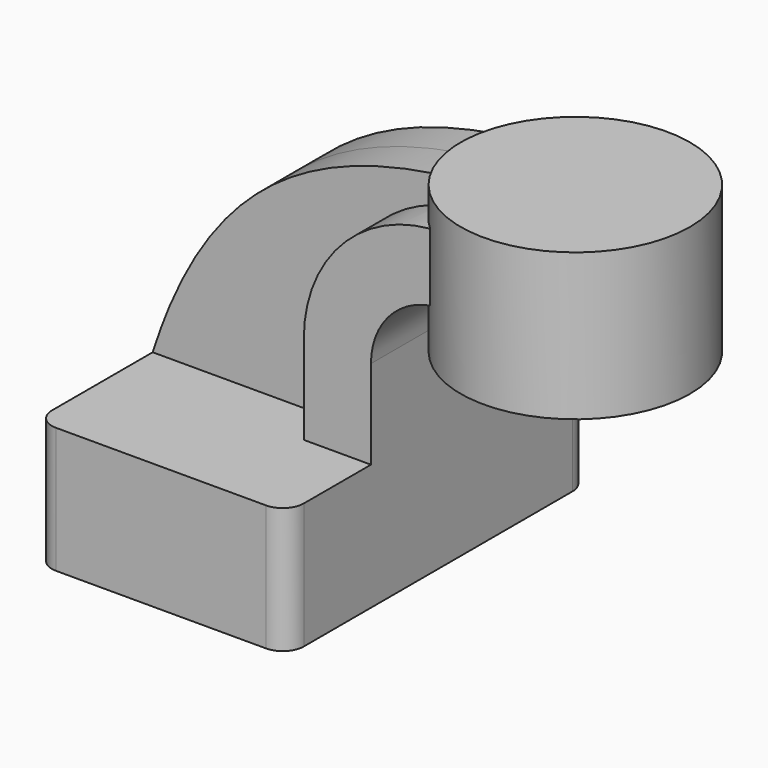
from build123d import *

# Parameters (mm, degrees)
F1_DEPTH = 57.15
F2_DEPTH = 25.4
F3_DEPTH = 12.7
F0_W     = 34.6883076322
F0_H     = 8.9280228981
F0_H_2   = 20.32
F0_H_3   = 15.2019771019
F5_R     = 6.35


with BuildPart() as f1:
    # F0 (on Front) → F1 (new body, symmetric)
    with BuildSketch(Plane.XZ):
        Polygon((-34.9306485406, 17.8198447397), (-34.9306485406, -20.2801552603), (41.2693514594, -20.2801552603), (41.2693514594, 17.8198447397), (20.9493514594, 17.8198447397), align=None)
    extrude(amount=F1_DEPTH, both=True)

    # F0 (on Front) → F2 (join, symmetric)
    with BuildSketch(Plane.XZ):
        with BuildLine():
            Line((20.9493514594, 17.8198447397), (41.2693514594, 17.8198447397))
            Line((41.2693514594, 17.8198447397), (41.2693514594, 44.7438447397))
            ThreePointArc((41.2693514594, 44.7438447397), (47.5929160536, 60.0102801456), (62.8593514594, 66.3338447397))
            Line((62.8593514594, 66.3338447397), (82.7810438272, 66.3338447397))
            Line((82.7810438272, 66.3338447397), (82.7810438272, 86.6538447397))
            Line((82.7810438272, 86.6538447397), (62.8593514594, 86.6538447397))
            ThreePointArc((62.8593514594, 86.6538447397), (33.2245062599, 74.3786899393), (20.9493514594, 44.7438447397))
            Line((20.9493514594, 44.7438447397), (20.9493514594, 17.8198447397))
        make_face()
    extrude(amount=F2_DEPTH, both=True)

    # F0 (on Front) → F3 (join, symmetric)
    with BuildSketch(Plane.XZ):
        with BuildLine():
            add(Edge.make_bspline(
                [(82.7810438272, 95.5818676378), (25.6006252021, 94.6536809206), (-14.9303628132, 80.6806907058), (-34.9306485406, 17.8198447397)],
                knots=[0, 0, 0, 0, 141.0779030369, 141.0779030369, 141.0779030369, 141.0779030369], degree=3))
            Line((-34.9306485406, 17.8198447397), (20.9493514594, 17.8198447397))
            Line((20.9493514594, 17.8198447397), (20.9493514594, 44.7438447397))
            ThreePointArc((20.9493514594, 44.7438447397), (33.2245062599, 74.3786899393), (62.8593514594, 86.6538447397))
            Line((62.8593514594, 86.6538447397), (82.7810438272, 86.6538447397))
            Line((82.7810438272, 86.6538447397), (82.7810438272, 95.5818676378))
        make_face()
    extrude(amount=F3_DEPTH, both=True)

    # F0 (on Front) → F4 (revolve)
    with BuildSketch(Plane.XZ):
        with Locations((100.1251976433, 91.1178561888)):
            Rectangle(F0_W, F0_H)
        with Locations((100.1251976433, 76.4938447397)):
            Rectangle(F0_W, F0_H_2)
        with Locations((100.1251976433, 58.7328561888)):
            Rectangle(F0_W, F0_H_3)
    revolve(axis=Axis((82.7810438272, 0, 73.3568676378), (0, 0, -1)))

    # F5
    f5_edges = [f1.edges().sort_by_distance(p)[0] for p in [
        (41.269351, 57.15, -1.230155),
        (-34.930649, 57.15, -1.230155),
        (41.269351, -57.15, -1.230155),
        (-34.930649, -57.15, -1.230155),
    ]]
    fillet(f5_edges, radius=F5_R)


solid = f1.part
